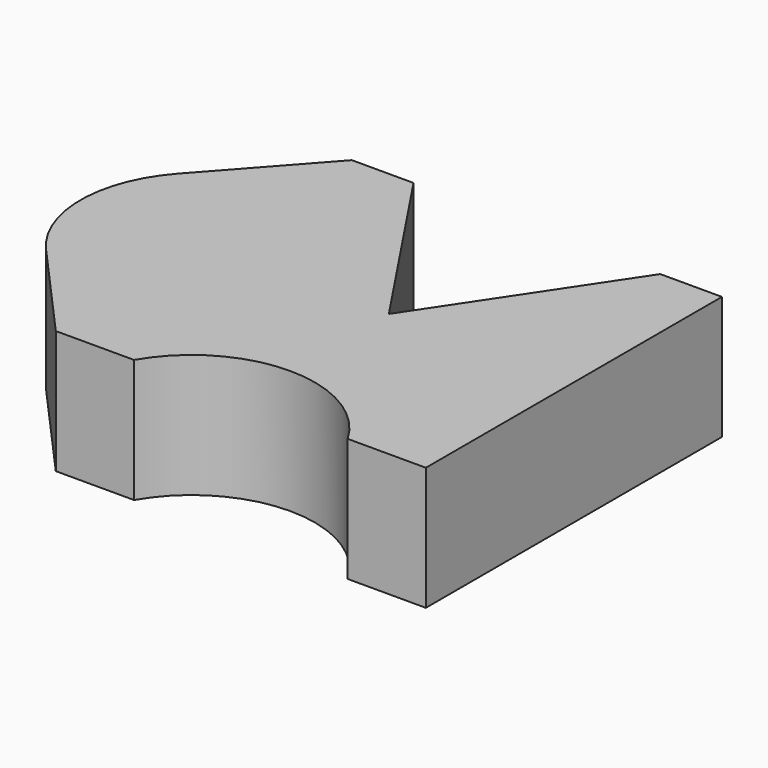
from build123d import *

# Parameters (mm, degrees)
F1_DEPTH = 20


with BuildPart() as f1:
    # F0 (on Top) → F1 (new body)
    with BuildSketch(Plane.XY):
        with BuildLine():
            ThreePointArc((-17.320508, -30), (0, -20), (17.320508, -30))
            Line((17.320508, -30), (30, -30))
            Line((30, -30), (30, 30))
            Line((30, 30), (20, 30))
            Line((20, 30), (0, 0))
            Line((0, 0), (-20, 30))
            Line((-20, 30), (-30, 30))
            Line((-30, 30), (-44.90712, 13.333333))
            ThreePointArc((-44.90712, 13.333333), (-50, 0), (-44.90712, -13.333333))
            Line((-44.90712, -13.333333), (-30, -30))
            Line((-30, -30), (-17.320508, -30))
        make_face()
    extrude(amount=F1_DEPTH)


solid = f1.part
